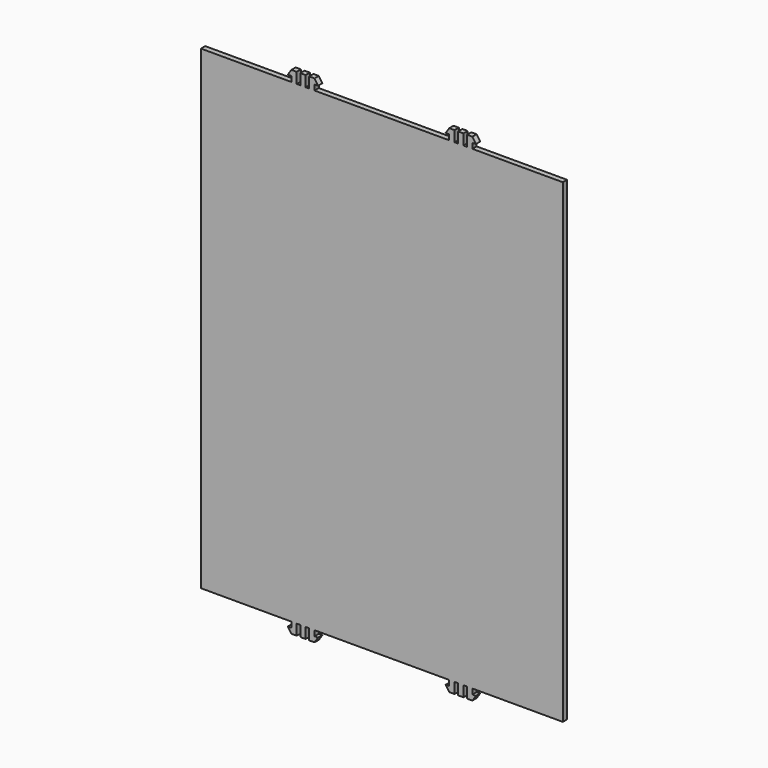
from build123d import *

# Parameters (mm, degrees)
F0_W     = 3
F0_H     = 6
F1_DEPTH = 3


with BuildPart() as f1:
    # F0 (on Front) → F1 (new body)
    with BuildSketch(Plane.XZ):
        Polygon((111.814639, -86.690971), (111.814639, 180.009029), (61.014639, 180.009029), (58.014639, 180.009029), (56.014639, 180.009029), (53.014639, 180.009029), (51.014639, 180.009029), (48.014639, 180.009029), (-27.585361, 180.009029), (-27.585361, 183.009029), (-25.585361, 183.009029), (-27.585361, 186.009029), (-30.585361, 186.009029), (-30.585361, 180.009029), (-32.585361, 180.009029), (-32.585361, 186.009029), (-35.585361, 186.009029), (-35.585361, 180.009029), (-37.585361, 180.009029), (-37.585361, 186.009029), (-40.585361, 186.009029), (-42.585361, 183.009029), (-40.585361, 183.009029), (-40.585361, 180.009029), (-91.385361, 180.009029), (-91.385361, -86.690971), (-40.585361, -86.690971), (-40.585361, -89.690971), (-42.585361, -89.690971), (-40.585361, -92.690971), (-37.585361, -92.690971), (-37.585361, -86.690971), (-35.585361, -86.690971), (-35.585361, -92.690971), (-32.585361, -92.690971), (-32.585361, -86.690971), (-30.585361, -86.690971), (-30.585361, -92.690971), (-27.585361, -92.690971), (-25.585361, -89.690971), (-27.585361, -89.690971), (-27.585361, -86.690971), (48.014639, -86.690971), (48.014639, -89.690971), (46.014639, -89.690971), (48.014639, -92.690971), (51.014639, -92.690971), (51.014639, -86.690971), (53.014639, -86.690971), (53.014639, -92.690971), (56.014639, -92.690971), (56.014639, -86.690971), (58.014639, -86.690971), (58.014639, -92.690971), (61.014639, -92.690971), (63.014639, -89.690971), (61.014639, -89.690971), (61.014639, -86.690971), align=None)
        Polygon((58.014639, 180.009029), (61.014639, 180.009029), (61.014639, 183.009029), (63.014639, 183.009029), (61.014639, 186.009029), (58.014639, 186.009029), align=None)
        with Locations((54.514639, 183.009029)):
            Rectangle(F0_W, F0_H)
        Polygon((48.014639, 180.009029), (51.014639, 180.009029), (51.014639, 186.009029), (48.017444, 186.003429), (46.014639, 183.003429), (48.014639, 183.009029), align=None)
    extrude(amount=F1_DEPTH)


solid = f1.part
